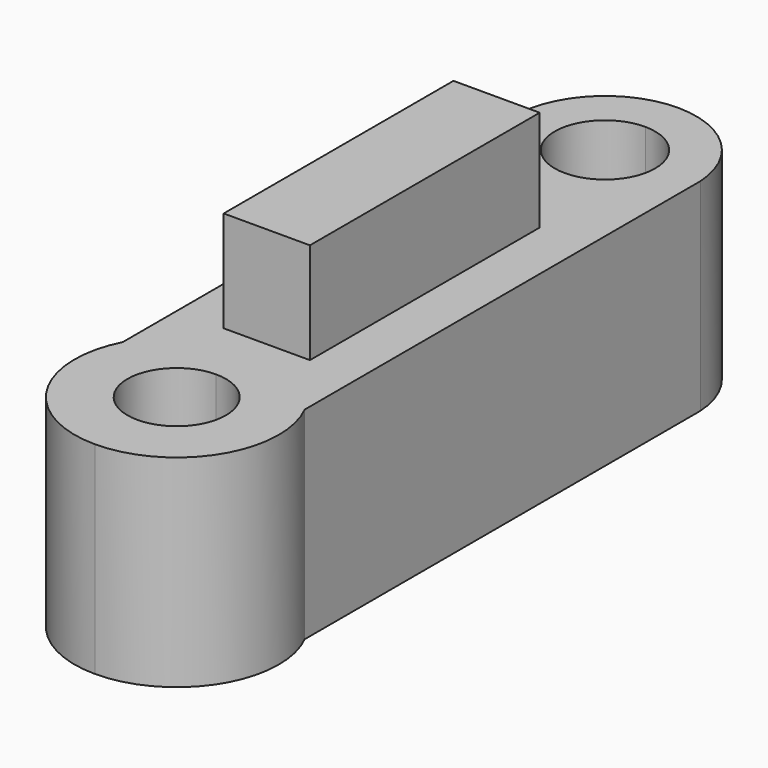
from build123d import *

# Parameters (mm, degrees)
F1_DEPTH = 25.4
F2_W     = 10.831615
F2_H     = 36.074603
F3_DEPTH = 12.7


with BuildPart() as f1:
    # F0 (on Top) → F1 (new body)
    with BuildSketch(Plane.XY):
        with BuildLine():
            Line((11.453449, -14.580139), (11.453449, 46.211524))
            Line((11.453449, 46.211524), (11.453449, 47.535138))
            ThreePointArc((11.453449, 47.535138), (7.929655, 55.164293), (0.151163, 58.344888))
            Line((0.151163, 58.344888), (0.083036, 53.174786))
            ThreePointArc((0.083036, 53.174786), (4.48545, 51.300065), (6.302002, 46.873331))
            ThreePointArc((6.302002, 46.873331), (4.456189, 42.417143), (0, 40.571329))
            Line((0, 40.571329), (0, 30.002359))
            Line((0, 30.002359), (5.299856, 30.002359))
            Line((5.299856, 30.002359), (5.299856, -6.072244))
            Line((5.299856, -6.072244), (0, -6.072244))
            Line((0, -6.072244), (0, -14.17889))
            ThreePointArc((0, -14.17889), (4.373526, -15.990464), (6.1851, -20.36399))
            ThreePointArc((6.1851, -20.36399), (4.373526, -24.737516), (0, -26.54909))
            Line((0, -26.54909), (0, -33.194985))
            ThreePointArc((0, -33.194985), (10.928105, -27.087898), (11.453449, -14.580139))
        make_face()
        with BuildLine():
            Line((0.083036, 53.174786), (0.151163, 58.344888))
            ThreePointArc((0.151163, 58.344888), (-7.708436, 55.37036), (-11.432033, 47.836705))
            Line((-11.432033, 47.836705), (-11.432033, 45.909957))
            Line((-11.432033, 45.909957), (-11.432033, -14.537925))
            ThreePointArc((-11.432033, -14.537925), (-10.94049, -27.067728), (0, -33.194985))
            Line((0, -33.194985), (0, -26.54909))
            ThreePointArc((0, -26.54909), (-6.1851, -20.36399), (0, -14.17889))
            Line((0, -14.17889), (0, -6.072244))
            Line((0, -6.072244), (-5.531759, -6.072244))
            Line((-5.531759, -6.072244), (-5.531759, 30.002359))
            Line((-5.531759, 30.002359), (0, 30.002359))
            Line((0, 30.002359), (0, 40.571329))
            ThreePointArc((0, 40.571329), (-6.301865, 46.91485), (0.083036, 53.174786))
        make_face()
    extrude(amount=F1_DEPTH)


with BuildPart() as f3:
    # F2 (on face) → F3 (new body)
    with BuildSketch(Plane.XY.offset(25.4)):
        with Locations((-0.115951, 11.965058)):
            Rectangle(F2_W, F2_H)
    extrude(amount=F3_DEPTH)


solid = Compound([f1.part, f3.part])
